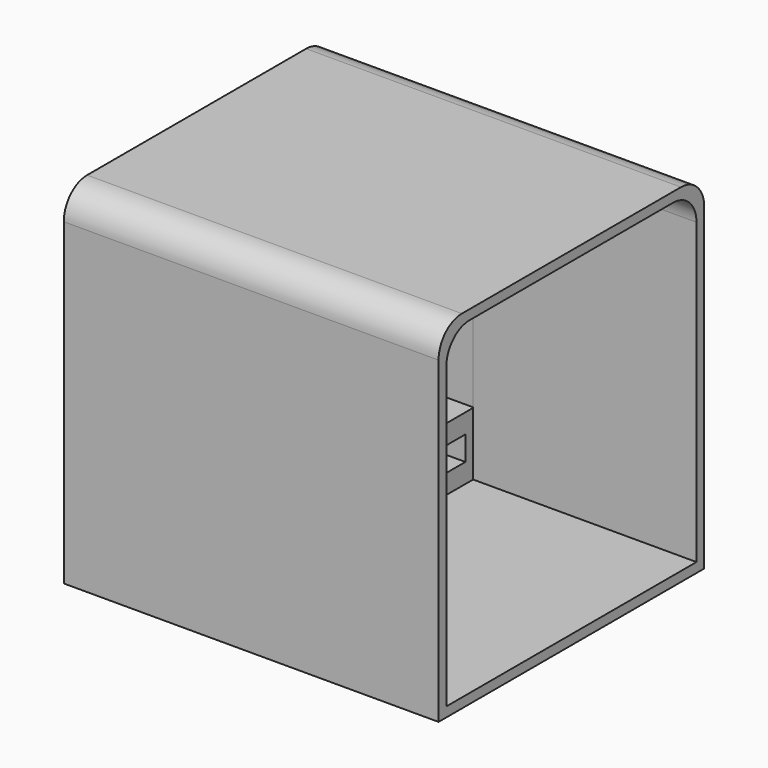
from build123d import *

# Parameters (mm, degrees)
PAD_DEPTH       = 38.6
POCKET_DEPTH    = 16
POCKET001_DEPTH = 23
POCKET002_DEPTH = 14


with BuildPart() as part:
    # Sketch → Pad (new body)
    with BuildSketch(Plane.YZ):
        with BuildLine():
            Line((0, 0), (34.2, 0))
            Line((34.2, 0), (34.2, 32.8))
            ThreePointArc((34.2, 32.8), (33.32132, 34.92132), (31.2, 35.8))
            Line((31.2, 35.8), (3, 35.8))
            ThreePointArc((3, 35.8), (0.87868, 34.92132), (0, 32.8))
            Line((0, 32.8), (0, 0))
        make_face()
    extrude(amount=PAD_DEPTH)

    # Sketch001 (on Face7 of Pad) → Pocket (cut)
    with BuildSketch(Plane(origin=(0, 0, 0), x_dir=(0, 1, 0), z_dir=(-1, 0, 0))):
        Polygon((4, -3), (4, -1), (29, -1), (29, -3), (32.2, -3), (32.2, -5.5), (29, -5.5), (29, -7.5), (4, -7.5), (4, -5.5), (1, -5.5), (1, -3), align=None)
    extrude(amount=-POCKET_DEPTH, mode=Mode.SUBTRACT)

    # Sketch002 (on Face5 of Pocket) → Pocket001 (cut)
    with BuildSketch(Plane.YZ.offset(38.6)):
        with BuildLine():
            Line((1, 1), (33.2, 1))
            Line((33.2, 1), (33.2, 31.8))
            ThreePointArc((33.2, 31.8), (32.32132, 33.92132), (30.2, 34.8))
            Line((30.2, 34.8), (4, 34.8))
            ThreePointArc((4, 34.8), (1.87868, 33.92132), (1, 31.8))
            Line((1, 31.8), (1, 1))
        make_face()
    extrude(amount=-POCKET001_DEPTH, mode=Mode.SUBTRACT)

    # Sketch003 (on Face29 of Pocket001) → Pocket002 (cut)
    with BuildSketch(Plane.YZ.offset(15.6)):
        with BuildLine():
            Line((1, 7.5), (33.273769, 7.5))
            Line((33.273769, 7.5), (33.273769, 31.8))
            ThreePointArc((33.273769, 31.8), (32.395089, 33.92132), (30.273769, 34.8))
            Line((30.273769, 34.8), (4, 34.8))
            ThreePointArc((4, 34.8), (1.87868, 33.92132), (1, 31.8))
            Line((1, 31.8), (1, 7.5))
        make_face()
    extrude(amount=-POCKET002_DEPTH, mode=Mode.SUBTRACT)


solid = part.part
